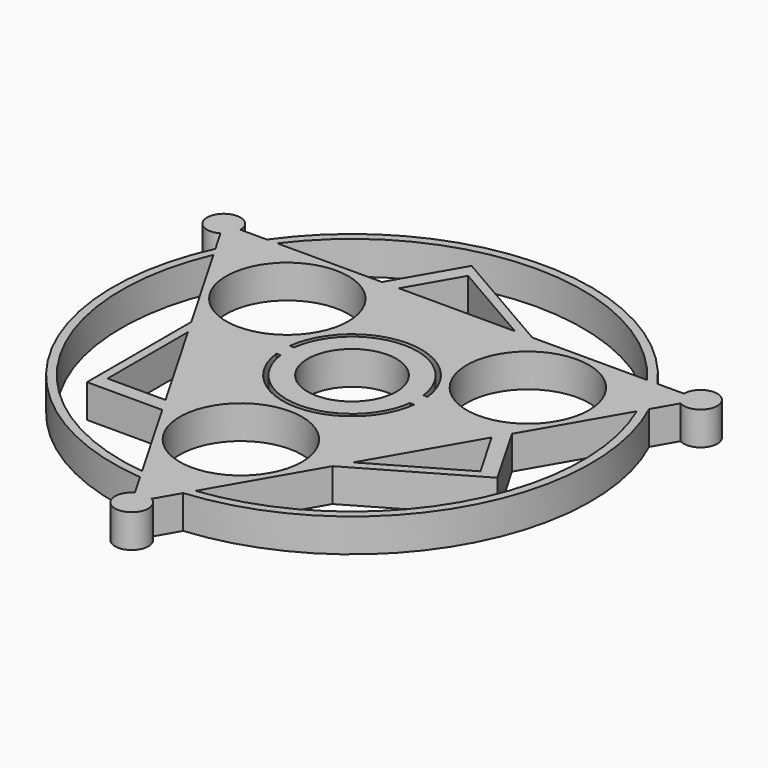
from build123d import *

# Parameters (mm, degrees)
F0_R     = 11
F0_R_2   = 8
F1_DEPTH = 6


with BuildPart() as f1:
    # F0 (on Top) → F1 (new body)
    with BuildSketch(Plane.XY):
        with BuildLine():
            Line((39.030607, 18.044715), (41.415403, 22.174484))
            ThreePointArc((41.415403, 22.174484), (45.513832, 26.272208), (39.915627, 24.772689))
            Line((39.915627, 24.772689), (35.146743, 24.773099))
            ThreePointArc((35.146743, 24.773099), (0.003695, 43), (-35.142485, 24.779139))
            Line((-35.142485, 24.779139), (-39.911368, 24.779549))
            ThreePointArc((-39.911368, 24.779549), (-45.509316, 26.28003), (-41.411592, 22.181602))
            Line((-41.411592, 22.181602), (-39.027505, 18.051423))
            ThreePointArc((-39.027505, 18.051423), (-37.24094, -21.4968), (-3.888122, -42.823854))
            Line((-3.888122, -42.823854), (-1.504035, -46.954034))
            ThreePointArc((-1.504035, -46.954034), (-0.004516, -52.552239), (1.495965, -46.954291))
            Line((1.495965, -46.954291), (3.880762, -42.824522))
            ThreePointArc((3.880762, -42.824522), (37.237245, -21.5032), (39.030607, 18.044715))
        make_face()
        with BuildLine():
            Line((-14.234654, -24.899577), (-4.814016, -41.219841))
            ThreePointArc((-4.814016, -41.219841), (-35.941837, -20.746911), (-38.101611, 16.447409))
            Line((-38.101611, 16.447409), (-27.773521, -1.444918))
            Line((-27.773521, -1.444918), (-27.773521, -24.899577))
            Line((-27.773521, -24.899577), (-14.234654, -24.899577))
        make_face(mode=Mode.SUBTRACT)
        with Locations((-0.002148, -25)):
            Circle(F0_R, mode=Mode.SUBTRACT)
        Polygon((-15.765198, -22.248072), (-26.203172, -22.248072), (-26.203172, -4.165382), align=None, mode=Mode.SUBTRACT)
        with BuildLine():
            ThreePointArc((-11.652676, -1.509186), (0, -11.75), (11.652676, -1.509186))
            Line((11.652676, -1.509186), (12.40856, -1.509186))
            ThreePointArc((12.40856, -1.509186), (0, -12.5), (-12.40856, -1.509186))
            Line((-12.40856, -1.509186), (-11.652676, -1.509186))
        make_face(mode=Mode.SUBTRACT)
        with BuildLine():
            ThreePointArc((38.104437, 16.44086), (35.938271, -20.753088), (4.806931, -41.220667))
            Line((4.806931, -41.220667), (15.138096, -23.330116))
            Line((15.138096, -23.330116), (35.450427, -11.602786))
            Line((35.450427, -11.602786), (28.680994, 0.122216))
            Line((28.680994, 0.122216), (38.104437, 16.44086))
        make_face(mode=Mode.SUBTRACT)
        Polygon((27.149994, -2.529026), (32.368981, -11.568576), (16.708913, -20.609921), align=None, mode=Mode.SUBTRACT)
        Circle(F0_R_2, mode=Mode.SUBTRACT)
        with BuildLine():
            Line((12.40856, 1.509186), (11.652676, 1.509186))
            ThreePointArc((11.652676, 1.509186), (0, 11.75), (-11.652676, 1.509186))
            Line((-11.652676, 1.509186), (-12.40856, 1.509186))
            ThreePointArc((-12.40856, 1.509186), (0, 12.5), (12.40856, 1.509186))
        make_face(mode=Mode.SUBTRACT)
        with Locations((-21.649561, 12.50186)):
            Circle(F0_R, mode=Mode.SUBTRACT)
        Polygon((-11.384796, 24.777098), (-6.16581, 33.816648), (9.494259, 24.775304), align=None, mode=Mode.SUBTRACT)
        with BuildLine():
            ThreePointArc((-33.290421, 24.77898), (0.003566, 41.5), (33.294679, 24.773258))
            Line((33.294679, 24.773258), (12.635425, 24.775034))
            Line((12.635425, 24.775034), (-7.676906, 36.502363))
            Line((-7.676906, 36.502363), (-14.446339, 24.777361))
            Line((-14.446339, 24.777361), (-33.290421, 24.77898))
        make_face(mode=Mode.SUBTRACT)
        with Locations((21.651709, 12.498139)):
            Circle(F0_R, mode=Mode.SUBTRACT)
    extrude(amount=F1_DEPTH)


solid = f1.part
